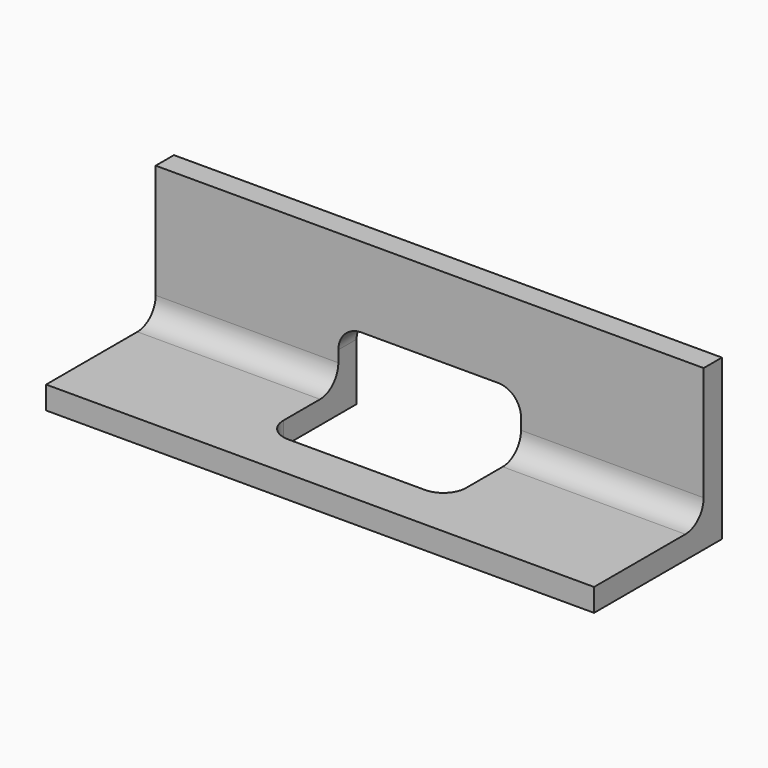
from build123d import *

# Parameters (mm, degrees)
F0_W          = 2
F0_H          = 12
F1_DEPTH      = 48
F2_W          = 16
F2_H          = 7
F3_DEPTH      = 2.001
F3_DEPTH_BACK = 8
F4_R          = 2


with BuildPart() as f1:
    # F0 (on Right) → F1 (new body)
    with BuildSketch(Plane.YZ):
        Polygon((0, 2), (0, 0), (14, 0), (14, 2), (12, 2), align=None)
        with Locations((13, 8)):
            Rectangle(F0_W, F0_H)
    extrude(amount=F1_DEPTH)

    # F2 (on face) → F3 (cut, two sides)
    with BuildSketch(Plane.XZ.offset(-12)) as f3_sk:
        with Locations((24, 3.5)):
            Rectangle(F2_W, F2_H)
    extrude(amount=-F3_DEPTH, mode=Mode.SUBTRACT)
    extrude(f3_sk.sketch, amount=F3_DEPTH_BACK, mode=Mode.SUBTRACT)

    # F4
    f4_edges = [f1.edges().sort_by_distance(p)[0] for p in [
        (32, 4, 1),
        (16, 4, 1),
        (16, 13, 7),
        (32, 13, 7),
        (40, 12, 2),
        (8, 12, 2),
    ]]
    fillet(f4_edges, radius=F4_R)


solid = f1.part
